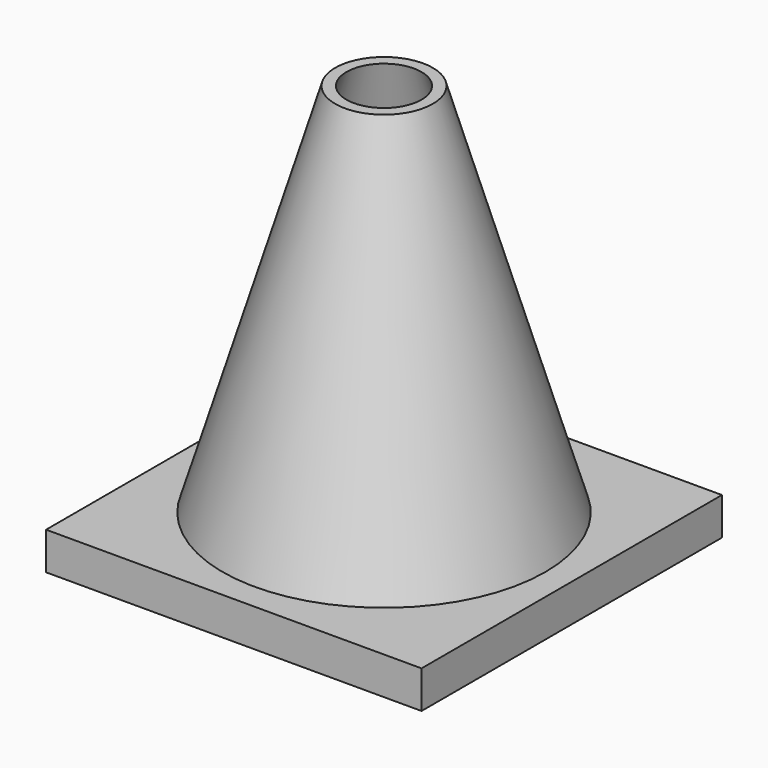
from build123d import *

# Parameters (mm, degrees)
BOX_W     = 10
BOX_H     = 10
BOX_DEPTH = 1


with BuildPart() as cube:
    # Box → Box (new body)
    with BuildSketch(Plane(origin=(-5, -5, 0), x_dir=(1, 0, 0), z_dir=(0, 0, 1))):
        with Locations((5, 5)):
            Rectangle(BOX_W, BOX_H)
    extrude(amount=BOX_DEPTH)


with BuildPart() as cone:
    # Cone → Cone (revolve)
    with BuildSketch(Plane.XZ):
        Polygon((0, 0), (4, 0), (1, 10), (0, 10), align=None)
    revolve(axis=Axis((0, 0, 0), (0, 0, 1)))


with BuildPart() as fusion:
    # Cone001 → Cone001 (revolve)
    with BuildSketch(Plane.XZ):
        Polygon((0, 0), (4.3, 0), (1.3, 10), (0, 10), align=None)
    revolve(axis=Axis((0, 0, 0), (0, 0, 1)))

    # Cut: cut Cone
    add(cone.part, mode=Mode.SUBTRACT)


with BuildPart() as fusion_1:
    # Cut placement: moved
    add(fusion.part.moved(Location((0, 0, 1))))

    # Fusion: union Cube
    add(cube.part)


solid = fusion_1.part
